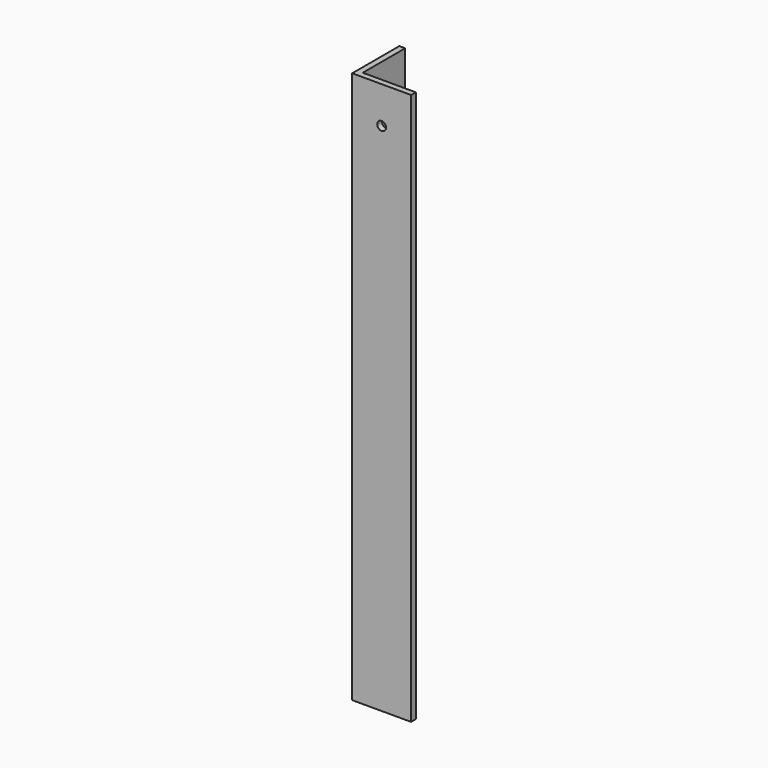
from build123d import *

# Parameters (mm, degrees)
CYLINDER002_R          = 6
CYLINDER002_DEPTH      = 900
CYLINDER002_ROLL_ANGLE = -90
CYLINDER_R             = 6
CYLINDER_DEPTH         = 1300
CYLINDER_PITCH_ANGLE   = 90
BOX001_W               = 80
BOX001_H               = 80
BOX001_DEPTH           = 750
BOX_W                  = 80
BOX_H                  = 80
BOX_DEPTH              = 750


with BuildPart() as cylinder002:
    # Cylinder002 → Cylinder002 (new body)
    with BuildSketch(Plane.XY):
        Circle(CYLINDER002_R)
    extrude(amount=CYLINDER002_DEPTH)


with BuildPart() as cylinder002_1:
    # Cylinder002 roll: moved
    add(cylinder002.part.rotate(Axis((0, 0, 0), (1, 0, 0)), CYLINDER002_ROLL_ANGLE))


with BuildPart() as cylinder002_2:
    # Cylinder002 placement: moved
    add(cylinder002_1.part.moved(Location((40, -10, 700))))


with BuildPart() as cylinder:
    # Cylinder → Cylinder (new body)
    with BuildSketch(Plane.XY):
        Circle(CYLINDER_R)
    extrude(amount=CYLINDER_DEPTH)


with BuildPart() as cylinder_1:
    # Cylinder pitch: moved
    add(cylinder.part.rotate(Axis((0, 0, 0), (0, 1, 0)), CYLINDER_PITCH_ANGLE))


with BuildPart() as cylinder_2:
    # Cylinder placement: moved
    add(cylinder_1.part.moved(Location((-10, 40, 720))))


with BuildPart() as cube001:
    # Box001 → Box001 (new body)
    with BuildSketch(Plane(origin=(8, 8, 0), x_dir=(1, 0, 0), z_dir=(0, 0, 1))):
        with Locations((40, 40)):
            Rectangle(BOX001_W, BOX001_H)
    extrude(amount=BOX001_DEPTH)


with BuildPart() as cut006:
    # Box → Box (new body)
    with BuildSketch(Plane.XY):
        with Locations((40, 40)):
            Rectangle(BOX_W, BOX_H)
    extrude(amount=BOX_DEPTH)

    # Cut: cut Cube001
    add(cube001.part, mode=Mode.SUBTRACT)

    # Cut004: cut Cylinder
    add(cylinder_2.part, mode=Mode.SUBTRACT)

    # Cut006: cut Cylinder002
    add(cylinder002_2.part, mode=Mode.SUBTRACT)


solid = cut006.part
